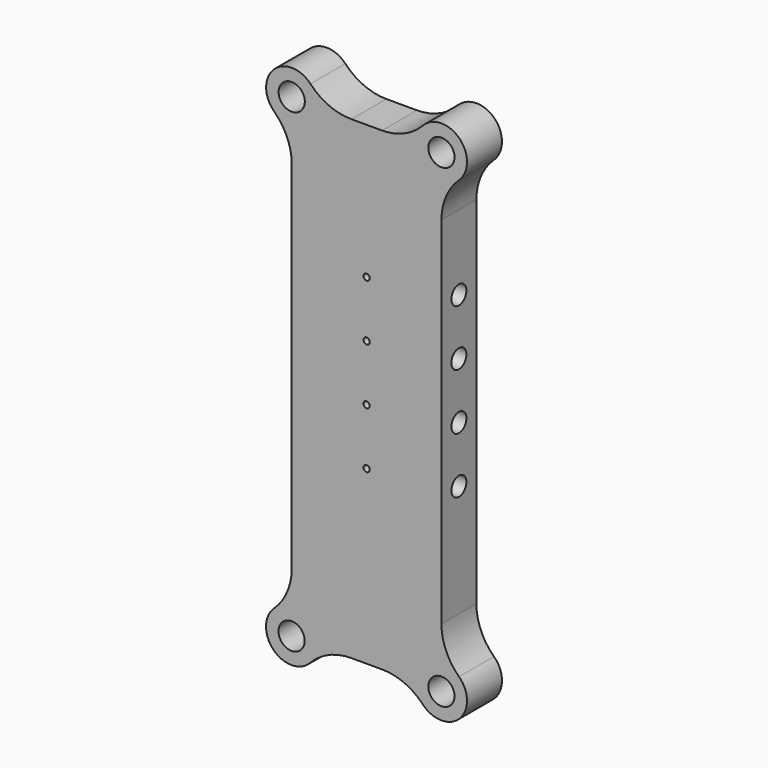
from build123d import *

# Parameters (mm, degrees)
F0_R     = 2.1
F1_DEPTH = 7
F2_R     = 0.5
F3_DEPTH = 4
F4_R     = 1.5
F5_DEPTH = 13


with BuildPart() as f1:
    # F0 (on Front) → F1 (new body)
    with BuildSketch(Plane.XZ):
        with BuildLine():
            ThreePointArc((2.979207, -11.709161), (5.958651, -9.626508), (9.518929, -8.892367))
            Line((9.518929, -8.892367), (14.481071, -8.892367))
            ThreePointArc((14.481071, -8.892367), (18.041349, -9.626508), (21.020793, -11.709161))
            ThreePointArc((21.020793, -11.709161), (26.899138, -11.791505), (26.816794, -5.913161))
            ThreePointArc((26.816794, -5.913161), (24.734141, -2.933716), (24, 0.626561))
            Line((24, 0.626561), (24, 57.588704))
            ThreePointArc((24, 57.588704), (24.734141, 61.148981), (26.816794, 64.128426))
            ThreePointArc((26.816794, 64.128426), (26.899138, 70.006771), (21.020793, 69.924427))
            ThreePointArc((21.020793, 69.924427), (18.041349, 67.841774), (14.481071, 67.107633))
            Line((14.481071, 67.107633), (9.578815, 67.107633))
            ThreePointArc((9.578815, 67.107633), (5.999651, 67.849934), (3.010891, 69.954391))
            ThreePointArc((3.010891, 69.954391), (-2.873666, 70.057006), (-2.797957, 64.172041))
            ThreePointArc((-2.797957, 64.172041), (-0.715304, 61.192596), (0.018837, 57.632319))
            Line((0.018837, 57.632319), (0.018837, 0.644336))
            ThreePointArc((0.018837, 0.644336), (-0.718827, -2.92411), (-2.810898, -5.907597))
            ThreePointArc((-2.810898, -5.907597), (-2.902002, -11.788638), (2.979207, -11.709161))
        make_face()
        with Locations((0, -8.892367)):
            Circle(F0_R, mode=Mode.SUBTRACT)
        with Locations((24, -8.892367)):
            Circle(F0_R, mode=Mode.SUBTRACT)
        with Locations((0.018837, 67.151248)):
            Circle(F0_R, mode=Mode.SUBTRACT)
        with Locations((24, 67.107633)):
            Circle(F0_R, mode=Mode.SUBTRACT)
    extrude(amount=F1_DEPTH)

    # F2 (on face) → F3 (cut)
    with BuildSketch(Plane.XZ.offset(7)):
        with Locations((12.018837, 45.629388)):
            Circle(F2_R)
        with Locations((12.018837, 36.629373)):
            Circle(F2_R)
        with Locations((12.018837, 27.629358)):
            Circle(F2_R)
        with Locations((12.018837, 18.629343)):
            Circle(F2_R)
    extrude(amount=-F3_DEPTH, mode=Mode.SUBTRACT)

    # F4 (on face) → F5 (cut)
    with BuildSketch(Plane.YZ.offset(24)):
        with Locations((-3.5, 45.607704)):
            Circle(F4_R)
        with Locations((-3.5, 36.607704)):
            Circle(F4_R)
        with Locations((-3.5, 27.607704)):
            Circle(F4_R)
        with Locations((-3.5, 18.607704)):
            Circle(F4_R)
    extrude(amount=-F5_DEPTH, mode=Mode.SUBTRACT)


solid = f1.part
